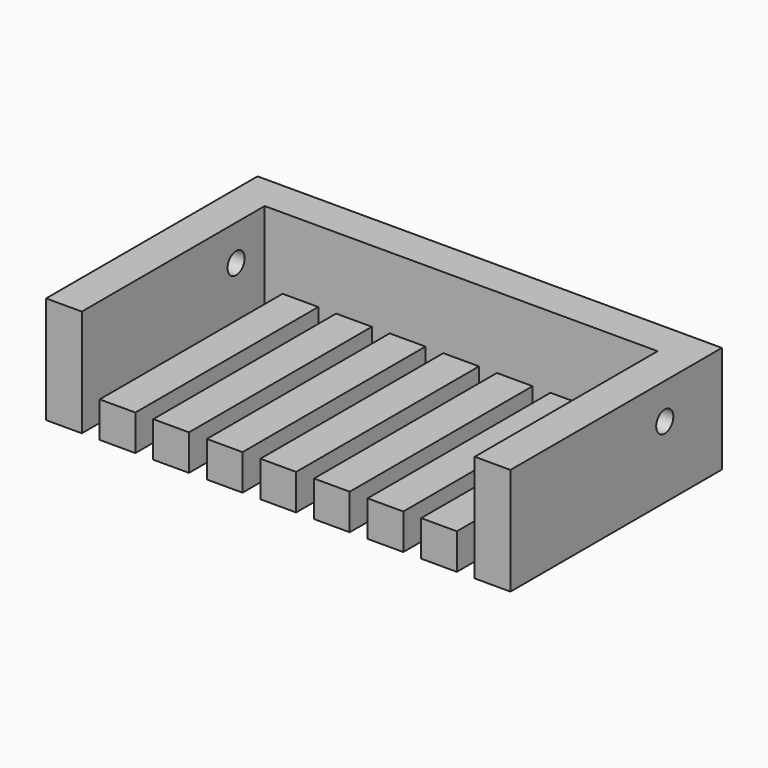
from build123d import *

# Parameters (mm, degrees)
PAD_DEPTH         = 10
PAD001_DEPTH      = 20
SKETCH002_R       = 3
POCKET_DEPTH      = 10.001
POCKET_DEPTH_BACK = -120.001


with BuildPart() as part:
    # Sketch → Pad (new body)
    with BuildSketch(Plane.XY):
        Polygon((-65, 0), (-55, 0), (-55, 64), (-50, 64), (-50, 0), (-40, 0), (-40, 64), (-35, 64), (-35, 0), (-25, 0), (-25, 64), (-20, 64), (-20, 0), (-10, 0), (-10, 64), (-5, 64), (-5, 0), (5, 0), (5, 64), (10, 64), (10, 0), (20, 0), (20, 64), (25, 64), (25, 0), (35, 0), (35, 64), (40, 64), (40, 0), (50, 0), (50, 64), (55, 64), (55, 0), (65, 0), (65, 74), (-65, 74), align=None)
    extrude(amount=PAD_DEPTH)

    # Sketch001 (on Face38 of Pad) → Pad001 (join)
    with BuildSketch(Plane.XY.offset(10)):
        Polygon((-55, 0), (-65, 0), (-65, 74), (65, 74), (65, 0), (55, 0), (55, 64), (-55, 64), align=None)
    extrude(amount=PAD001_DEPTH)

    # Sketch002 (on Face34 of Pad001) → Pocket (cut, two sides)
    with BuildSketch(Plane.YZ.offset(-55)) as pocket_sk:
        with Locations((54, 20)):
            Circle(SKETCH002_R)
    extrude(amount=-POCKET_DEPTH, mode=Mode.SUBTRACT)
    extrude(pocket_sk.sketch, amount=-POCKET_DEPTH_BACK, mode=Mode.SUBTRACT)


solid = part.part
